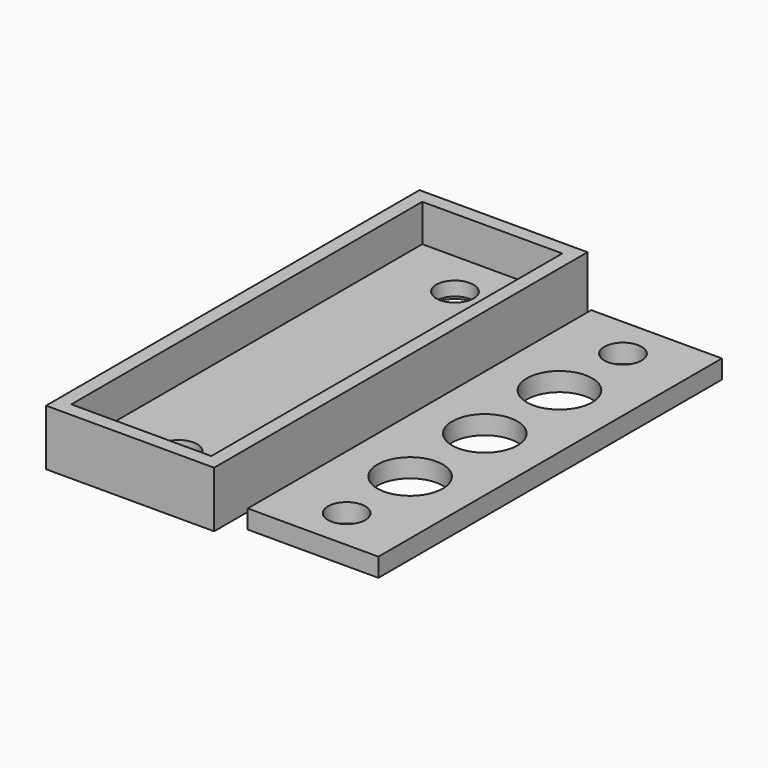
from build123d import *

# Parameters (mm, degrees)
F1_DEPTH       = 6
F2_W           = 15
F2_H           = 47
F3_DEPTH       = 4
F5_D           = 4
F5_DEPTH       = 5
F5_CBORE_D     = 5
F5_CBORE_DEPTH = 0.5
F5_TIP         = 1.2017212381
F7_DEPTH       = 2
F9_D           = 4
F10_D          = 7


with BuildPart() as f1:
    # F0 (on Top) → F1 (new body)
    with BuildSketch(Plane.XY):
        Polygon((9, -25), (9, 25), (0, 25), (0, 0), (0, -25), align=None)
        Polygon((0, 0), (0, 25), (-9, 25), (-9, -25), (0, -25), align=None)
    extrude(amount=F1_DEPTH)

    # F2 (on face) → F3 (cut)
    with BuildSketch(Plane.XY.offset(6)):
        Rectangle(F2_W, F2_H)
    extrude(amount=-F3_DEPTH, mode=Mode.SUBTRACT)

    # F5
    with Locations(Plane(origin=(0, 0, 0), x_dir=(1, 0, 0), z_dir=(0, 0, -1))):
        with Locations((0, -18.5), (0, 18.5)):
            CounterBoreHole(F5_D / 2, F5_CBORE_D / 2, F5_CBORE_DEPTH, depth=F5_DEPTH)
            with Locations((0, 0, -(F5_DEPTH + F5_TIP / 2))):  # 118° drill point
                Cone(0, F5_D / 2, F5_TIP, mode=Mode.SUBTRACT)


with BuildPart() as f7:
    # F6 (on Top) → F7 (new body)
    with BuildSketch(Plane.XY):
        Polygon((32, 23), (18, 23), (18, 0), (18, -23), (32, -23), align=None)
    extrude(amount=F7_DEPTH)

    # F9 (through all)
    with Locations(Plane.XY.offset(2)):
        with Locations((25, -18.5), (25, 18.5)):
            Hole(F9_D / 2)

    # F10 (through all)
    with Locations(Plane.XY.offset(2)):
        with Locations((25, 10), (25, 0), (25, -10)):
            Hole(F10_D / 2)


with BuildPart() as f7_1:
    # F11: moved
    add(f7.part.moved(Location((-7, 0, 0))))


solid = Compound([f1.part, f7_1.part])
